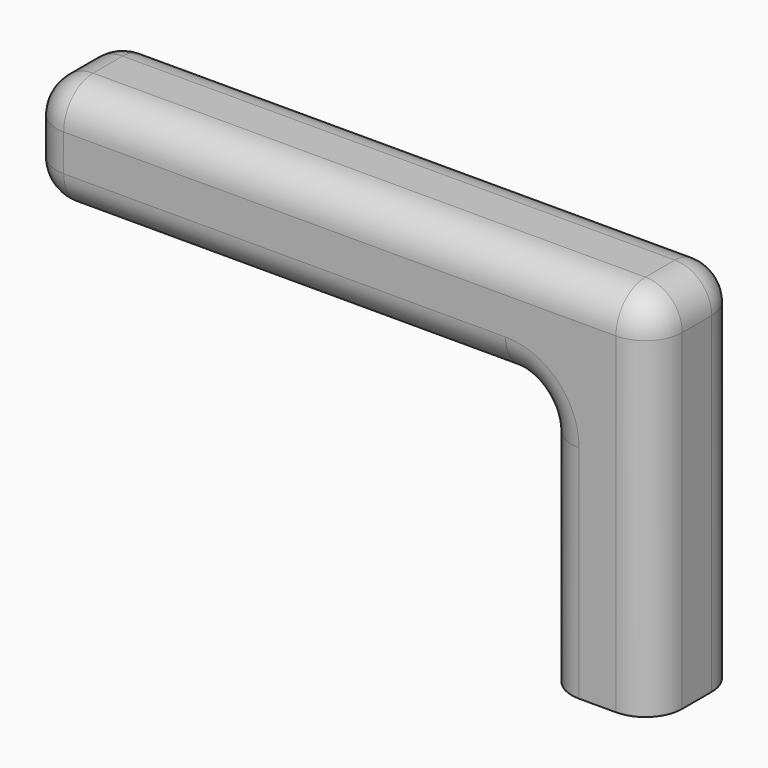
from build123d import *

# Parameters (mm, degrees)
F0_W     = 15
F0_H     = 15
F0_W_2   = 10.51
F0_H_2   = 10.51
F1_DEPTH = 25
F2_W     = 15
F2_H     = 15
F3_DEPTH = 25
F4_W     = 15
F4_H     = 15
F5_DEPTH = 70
F6_R     = 5


with BuildPart() as f1:
    # F0 (on Top) → F1 (new body)
    with BuildSketch(Plane.XY):
        Rectangle(F0_W, F0_H)
        Rectangle(F0_W_2, F0_H_2, mode=Mode.SUBTRACT)
    extrude(amount=F1_DEPTH)

    # F2 (on face) → F3 (join)
    with BuildSketch(Plane.XY.offset(25)):
        Rectangle(F2_W, F2_H)
    extrude(amount=F3_DEPTH)

    # F4 (on face) → F5 (join)
    with BuildSketch(Plane(origin=(-7.5, 0, 0), x_dir=(0, -1, 0), z_dir=(-1, 0, 0))):
        with Locations((0, 42.5)):
            Rectangle(F4_W, F4_H)
    extrude(amount=F5_DEPTH)

    # F6
    f6_edges = [f1.edges().sort_by_distance(p)[0] for p in [
        (-35, 7.5, 50),
        (7.5, 0, 50),
        (-35, -7.5, 50),
        (7.5, -7.5, 25),
        (7.5, 7.5, 25),
        (-77.5, 0, 50),
        (-77.5, 7.5, 42.5),
        (-77.5, 0, 35),
        (-77.5, -7.5, 42.5),
        (-42.5, 7.5, 35),
        (-7.5, 7.5, 17.5),
        (-7.5, -7.5, 17.5),
        (-42.5, -7.5, 35),
        (-7.5, 0, 35),
    ]]
    fillet(f6_edges, radius=F6_R)


solid = f1.part
